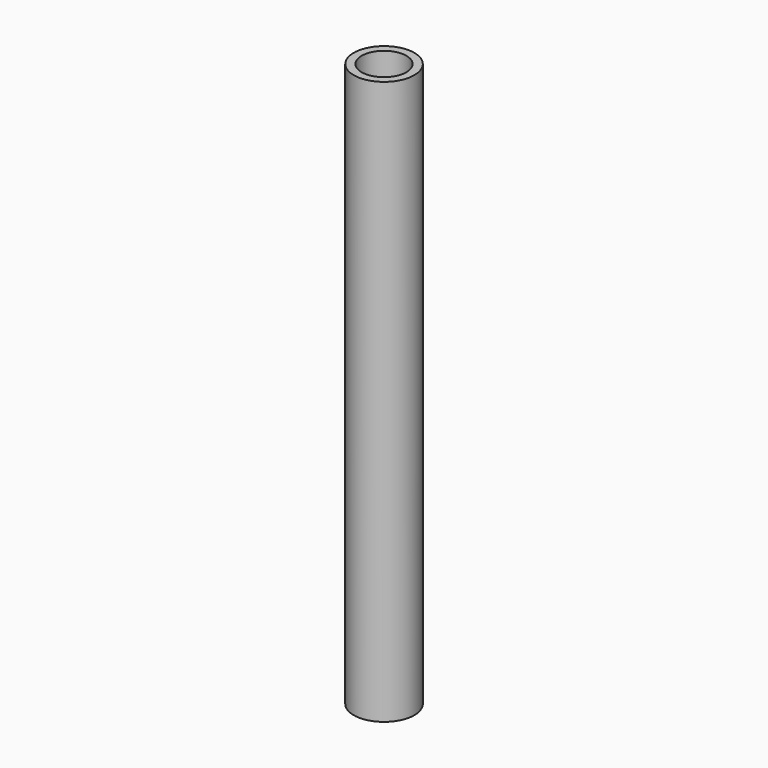
from build123d import *

# Parameters (mm, degrees)
F0_R           = 10
F1_DEPTH       = 93
F4_D           = 14.75
F4_DEPTH       = 31
F4_TIP         = 4.4313470653
F4_ON_F2_D     = 14.75
F4_ON_F2_DEPTH = 31
F4_ON_F2_TIP   = 4.4313470653
F5_R           = 7.5
F6_DEPTH       = 68


with BuildPart() as f1:
    # F0 (on Top) → F1 (new body, symmetric)
    with BuildSketch(Plane.XY):
        Circle(F0_R)
    extrude(amount=F1_DEPTH, both=True)

    # F4
    with Locations(Plane.XY.offset(93)):
        with Locations((0, 0)):
            Hole(F4_D / 2, depth=F4_DEPTH)
            with Locations((0, 0, -(F4_DEPTH + F4_TIP / 2))):  # 118° drill point
                Cone(0, F4_D / 2, F4_TIP, mode=Mode.SUBTRACT)

    # F4 on F2
    with Locations(Plane(origin=(0, 0, -93), x_dir=(1, 0, 0), z_dir=(0, 0, -1))):
        with Locations((0, 0)):
            Hole(F4_ON_F2_D / 2, depth=F4_ON_F2_DEPTH)
            with Locations((0, 0, -(F4_ON_F2_DEPTH + F4_ON_F2_TIP / 2))):  # 118° drill point
                Cone(0, F4_ON_F2_D / 2, F4_ON_F2_TIP, mode=Mode.SUBTRACT)

    # F5 (on Top) → F6 (cut, symmetric)
    with BuildSketch(Plane.XY):
        Circle(F5_R)
    extrude(amount=F6_DEPTH, both=True, mode=Mode.SUBTRACT)


solid = f1.part
